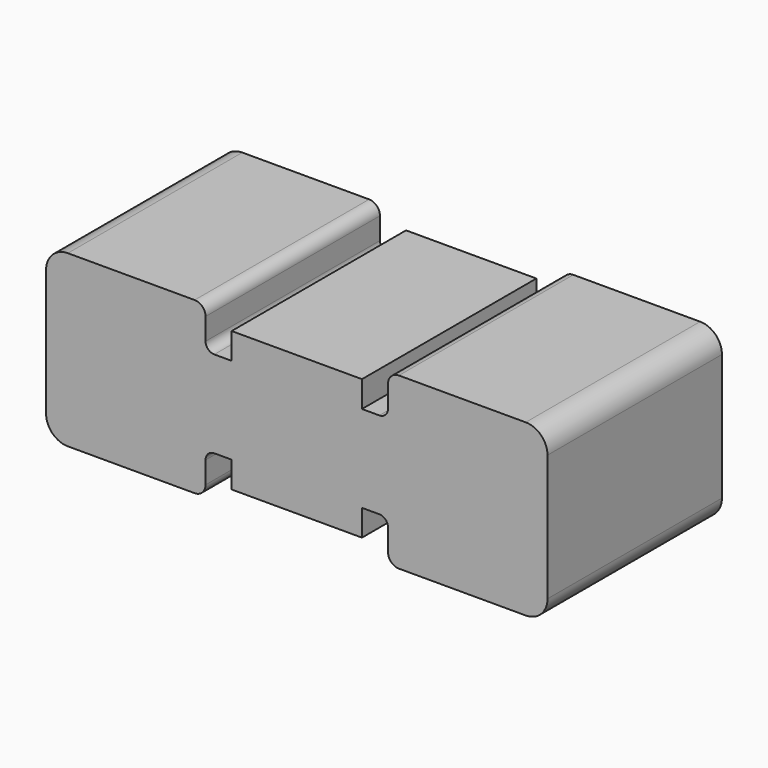
from build123d import *

# Parameters (mm, degrees)
F1_DEPTH = 25.4


with BuildPart() as f1:
    # F0 (on Front) → F1 (new body)
    with BuildSketch(Plane.XZ):
        with BuildLine():
            Line((-29.21, 7.366), (-29.21, 0))
            Line((-29.21, 0), (0, 0))
            Line((0, 0), (0, 8.128))
            Line((0, 8.128), (-7.592705, 8.128))
            Line((-7.592705, 8.128), (-7.592705, 5.068886))
            Line((-7.592705, 5.068886), (-9.612936, 5.068886))
            ThreePointArc((-9.612936, 5.068886), (-10.331357, 5.366465), (-10.628936, 6.084886))
            Line((-10.628936, 6.084886), (-10.628936, 8.636))
            ThreePointArc((-10.628936, 8.636), (-11.000911, 9.534026), (-11.898936, 9.906))
            Line((-11.898936, 9.906), (-26.67, 9.906))
            ThreePointArc((-26.67, 9.906), (-28.466051, 9.162051), (-29.21, 7.366))
        make_face()
        with BuildLine():
            Line((0, 0), (-29.21, 0))
            Line((-29.21, 0), (-29.21, -7.366))
            ThreePointArc((-29.21, -7.366), (-28.466051, -9.162051), (-26.67, -9.906))
            Line((-26.67, -9.906), (-11.898936, -9.906))
            ThreePointArc((-11.898936, -9.906), (-11.000911, -9.534026), (-10.628936, -8.636))
            Line((-10.628936, -8.636), (-10.628936, -6.084886))
            ThreePointArc((-10.628936, -6.084886), (-10.331357, -5.366465), (-9.612936, -5.068886))
            Line((-9.612936, -5.068886), (-7.592705, -5.068886))
            Line((-7.592705, -5.068886), (-7.592705, -8.128))
            Line((-7.592705, -8.128), (0, -8.128))
            Line((0, -8.128), (7.592705, -8.128))
            Line((7.592705, -8.128), (7.592705, -5.068886))
            Line((7.592705, -5.068886), (9.612936, -5.068886))
            ThreePointArc((9.612936, -5.068886), (10.331357, -5.366465), (10.628936, -6.084886))
            Line((10.628936, -6.084886), (10.628936, -8.636))
            ThreePointArc((10.628936, -8.636), (11.000911, -9.534026), (11.898936, -9.906))
            Line((11.898936, -9.906), (26.67, -9.906))
            ThreePointArc((26.67, -9.906), (28.466051, -9.162051), (29.21, -7.366))
            Line((29.21, -7.366), (29.21, 0))
            Line((29.21, 0), (0, 0))
        make_face()
        with BuildLine():
            Line((0, 8.128), (0, 0))
            Line((0, 0), (29.21, 0))
            Line((29.21, 0), (29.21, 7.366))
            ThreePointArc((29.21, 7.366), (28.466051, 9.162051), (26.67, 9.906))
            Line((26.67, 9.906), (11.898936, 9.906))
            ThreePointArc((11.898936, 9.906), (11.000911, 9.534026), (10.628936, 8.636))
            Line((10.628936, 8.636), (10.628936, 6.084886))
            ThreePointArc((10.628936, 6.084886), (10.331357, 5.366465), (9.612936, 5.068886))
            Line((9.612936, 5.068886), (7.592705, 5.068886))
            Line((7.592705, 5.068886), (7.592705, 8.128))
            Line((7.592705, 8.128), (0, 8.128))
        make_face()
    extrude(amount=F1_DEPTH)


solid = f1.part
